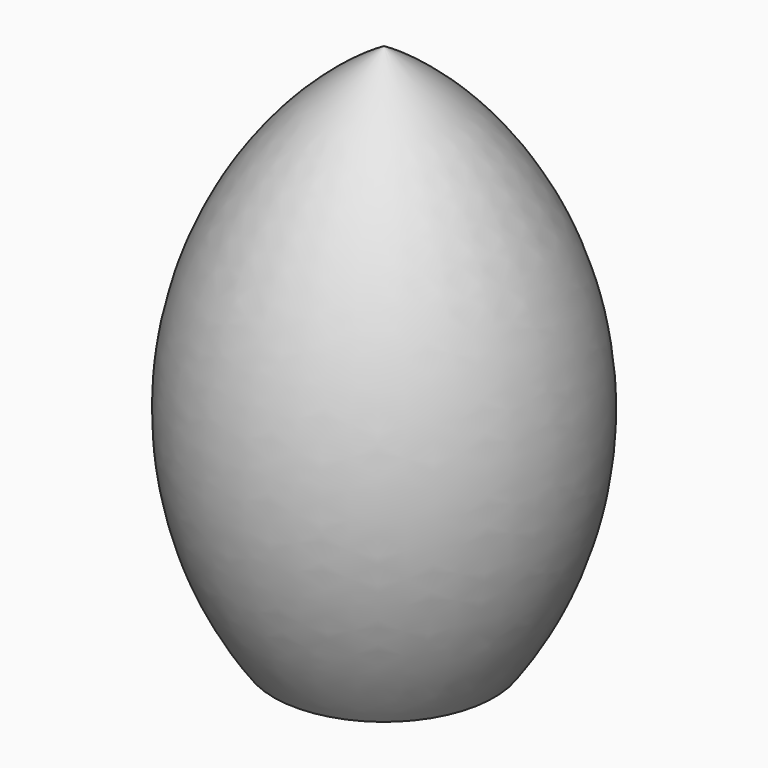
from build123d import *


with BuildPart() as f1:
    # F0 (on Front) → F1 (revolve)
    with BuildSketch(Plane.XZ):
        with BuildLine():
            ThreePointArc((-31.53035, 8.974019), (-37.642896, 0.370753), (-35.411008, -9.944192))
            Line((-35.411008, -9.944192), (-31.53035, -9.944192))
            Line((-31.53035, -9.944192), (-31.53035, 8.974019))
        make_face()
    revolve(axis=Axis((-31.53035, 0, -0.485086), (0, 0, 1)))


solid = f1.part
